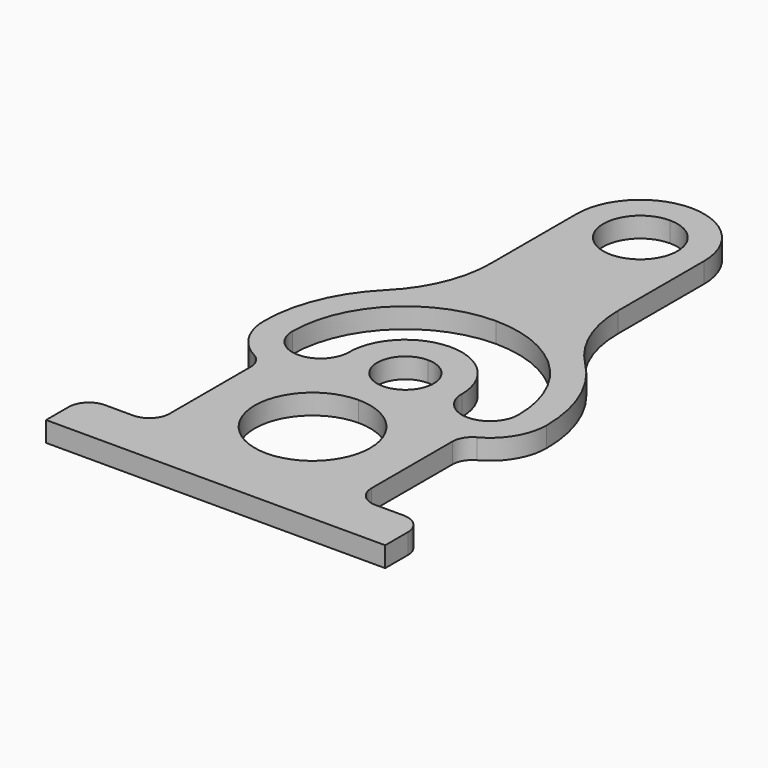
from build123d import *

# Parameters (mm, degrees)
PAD_DEPTH = 10


with BuildPart() as part:
    # Sketch → Pad (new body)
    with BuildSketch(Plane.XY):
        with BuildLine():
            Line((0, 0), (84, 0))
            Line((84, 0), (84, 14))
            ThreePointArc((84, 14), (81.071068, 21.071068), (74, 24))
            Line((60, 24), (74, 24))
            ThreePointArc((50, 34), (52.928932, 26.928932), (60, 24))
            Line((50, 34), (50, 84.033599))
            ThreePointArc((55.263158, 92.840547), (51.416049, 89.163491), (50, 84.033599))
            ThreePointArc((55.263158, 92.840547), (66.035062, 103.136303), (70, 117.5))
            ThreePointArc((70, 117.5), (64.624358, 144.40153), (49.323077, 167.17126))
            ThreePointArc((31.6, 209.746626), (36.207693, 186.688172), (49.323077, 167.17126))
            Line((31.6, 209.746626), (31.6, 263))
            ThreePointArc((31.6, 263), (22.344574, 285.344574), (0, 294.6))
            Line((0, 294.6), (0, 281.35))
            ThreePointArc((0, 244.65), (18.35, 263), (0, 281.35))
            Line((0, 244.65), (0, 173.5))
            ThreePointArc((56, 117.5), (39.59798, 157.09798), (0, 173.5))
            ThreePointArc((28, 117.5), (42, 103.5), (56, 117.5))
            ThreePointArc((28, 117.5), (19.79899, 137.29899), (0, 145.5))
            Line((0, 145.5), (0, 131.5))
            ThreePointArc((0, 103.5), (14, 117.5), (0, 131.5))
            Line((0, 103.5), (0, 88.6))
            ThreePointArc((0, 31.4), (28.6, 60), (0, 88.6))
            Line((0, 31.4), (0, 0))
        make_face()
    pad = extrude(amount=PAD_DEPTH)

    # Mirrored: Pad across Sketch V_Axis
    add(pad.mirror(Plane(origin=(0, 0, 0), x_dir=(0, 0, 1), z_dir=(1, 0, 0))))


solid = part.part
